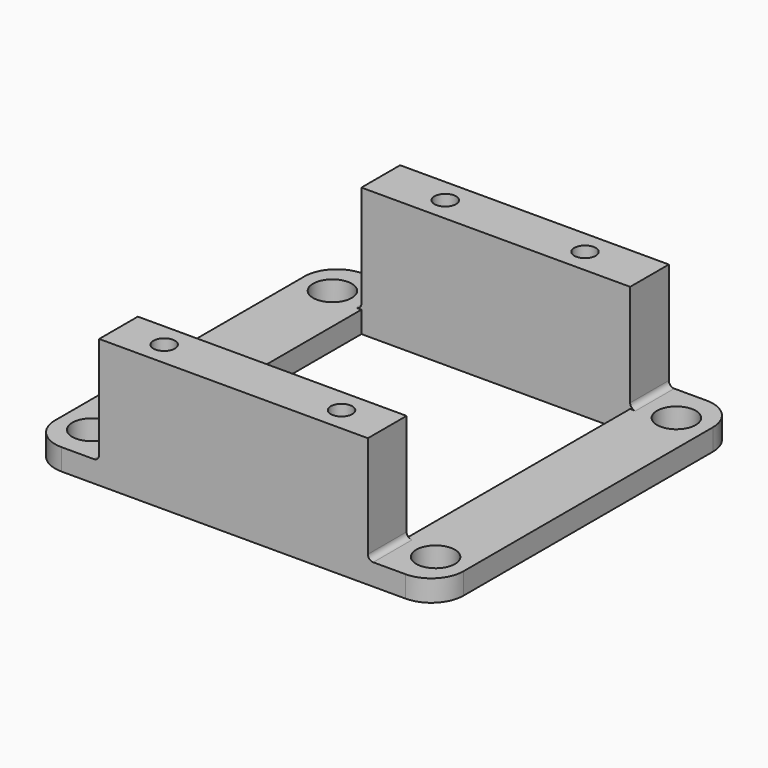
from build123d import *

# Parameters (mm, degrees)
F0_R     = 1.8
F0_W     = 25
F0_H     = 4.5
F0_R_2   = 1
F1_DEPTH = 2
F2_R     = 3
F3_DEPTH = 12
F4_R     = 0.5


with BuildPart() as f1:
    # F0 (on Top) → F1 (new body)
    with BuildSketch(Plane.XY):
        Polygon((-12.5, 17.5), (-19, 17.5), (-19, -17.5), (-12.5, -17.5), (-12.5, -13), (-12.5, 13), align=None)
        with Locations((-16, -14)):
            Circle(F0_R, mode=Mode.SUBTRACT)
        with Locations((-16, 14)):
            Circle(F0_R, mode=Mode.SUBTRACT)
        Polygon((19, 17.5), (12.5, 17.5), (12.5, 13), (12.5, -13), (12.5, -17.5), (19, -17.5), align=None)
        with Locations((16, -14)):
            Circle(F0_R, mode=Mode.SUBTRACT)
        with Locations((16, 14)):
            Circle(F0_R, mode=Mode.SUBTRACT)
        with Locations((0, 15.25)):
            Rectangle(F0_W, F0_H)
        with Locations((-6.5, 15.25)):
            Circle(F0_R_2, mode=Mode.SUBTRACT)
        with Locations((6.5, 15.25)):
            Circle(F0_R_2, mode=Mode.SUBTRACT)
        with Locations((0, -15.25)):
            Rectangle(F0_W, F0_H)
        with Locations((-8.25, -15.25)):
            Circle(F0_R_2, mode=Mode.SUBTRACT)
        with Locations((8.25, -15.25)):
            Circle(F0_R_2, mode=Mode.SUBTRACT)
    extrude(amount=F1_DEPTH)

    # F2
    f2_edges = [f1.edges().sort_by_distance(p)[0] for p in [
        (-19, 17.5, 1),
        (19, 17.5, 1),
        (19, -17.5, 1),
        (-19, -17.5, 1),
    ]]
    fillet(f2_edges, radius=F2_R)

    # F0 (on Top) → F3 (join)
    with BuildSketch(Plane.XY):
        with Locations((0, 15.25)):
            Rectangle(F0_W, F0_H)
        with Locations((-6.5, 15.25)):
            Circle(F0_R_2, mode=Mode.SUBTRACT)
        with Locations((6.5, 15.25)):
            Circle(F0_R_2, mode=Mode.SUBTRACT)
        with Locations((0, -15.25)):
            Rectangle(F0_W, F0_H)
        with Locations((-8.25, -15.25)):
            Circle(F0_R_2, mode=Mode.SUBTRACT)
        with Locations((8.25, -15.25)):
            Circle(F0_R_2, mode=Mode.SUBTRACT)
    extrude(amount=F3_DEPTH)

    # F4
    f4_edges = [f1.edges().sort_by_distance(p)[0] for p in [
        (-12.5, 15.25, 2),
        (-12.5, -15.25, 2),
        (12.5, 15.25, 2),
        (12.5, -15.25, 2),
    ]]
    fillet(f4_edges, radius=F4_R)


solid = f1.part
